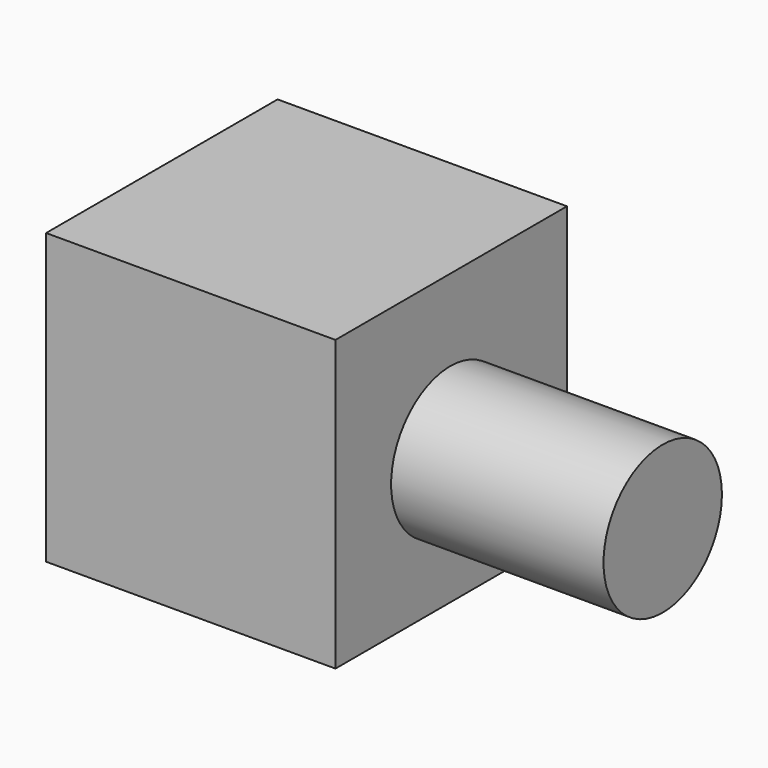
from build123d import *

# Parameters (mm, degrees)
F0_W     = 127
F0_H     = 127
F1_DEPTH = 127
F2_R     = 32.47457
F3_DEPTH = 93.218


with BuildPart() as f1:
    # F0 (on Top) → F1 (new body)
    with BuildSketch(Plane.XY):
        with Locations((0, -63.5)):
            Rectangle(F0_W, F0_H)
    extrude(amount=F1_DEPTH)

    # F2 (on face) → F3 (join)
    with BuildSketch(Plane.YZ.offset(63.5)):
        with Locations((-63.9963, 58.810309)):
            Circle(F2_R)
    extrude(amount=F3_DEPTH)


solid = f1.part
